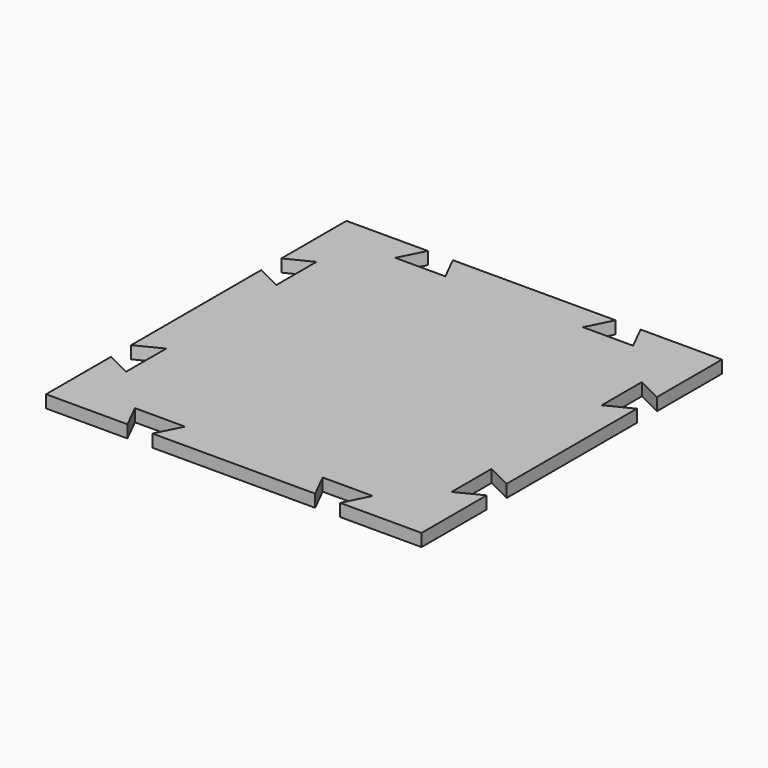
from build123d import *

# Parameters (mm, degrees)
F0_W     = 75
F0_H     = 75
F1_DEPTH = 2.5
F3_DEPTH = 2.5


with BuildPart() as f1:
    # F0 (on Top) → F1 (new body)
    with BuildSketch(Plane.XY):
        Rectangle(F0_W, F0_H)
    extrude(amount=-F1_DEPTH)

    # F2 (on Top) → F3 (cut, through all)
    with BuildSketch(Plane.XY):
        Polygon((-32.5, 13.75), (-32.5, 23.75), (-37.5, 21.25), (-37.5, 16.25), align=None)
        Polygon((-32.5, -13.75), (-37.5, -16.25), (-37.5, -21.25), (-32.5, -23.75), align=None)
        Polygon((37.5, 21.25), (32.5, 23.75), (32.5, 13.75), (37.5, 16.25), align=None)
        Polygon((32.5, -13.75), (32.5, -23.75), (37.5, -21.25), (37.5, -16.25), align=None)
        Polygon((-16.25, 37.5), (-21.25, 37.5), (-23.75, 32.5), (-13.75, 32.5), align=None)
        Polygon((21.25, 37.5), (16.25, 37.5), (13.75, 32.5), (23.75, 32.5), align=None)
        Polygon((-13.75, -32.5), (-23.75, -32.5), (-21.25, -37.5), (-16.25, -37.5), align=None)
        Polygon((16.25, -37.5), (21.25, -37.5), (23.75, -32.5), (13.75, -32.5), align=None)
    extrude(amount=-F3_DEPTH, mode=Mode.SUBTRACT)


solid = f1.part
